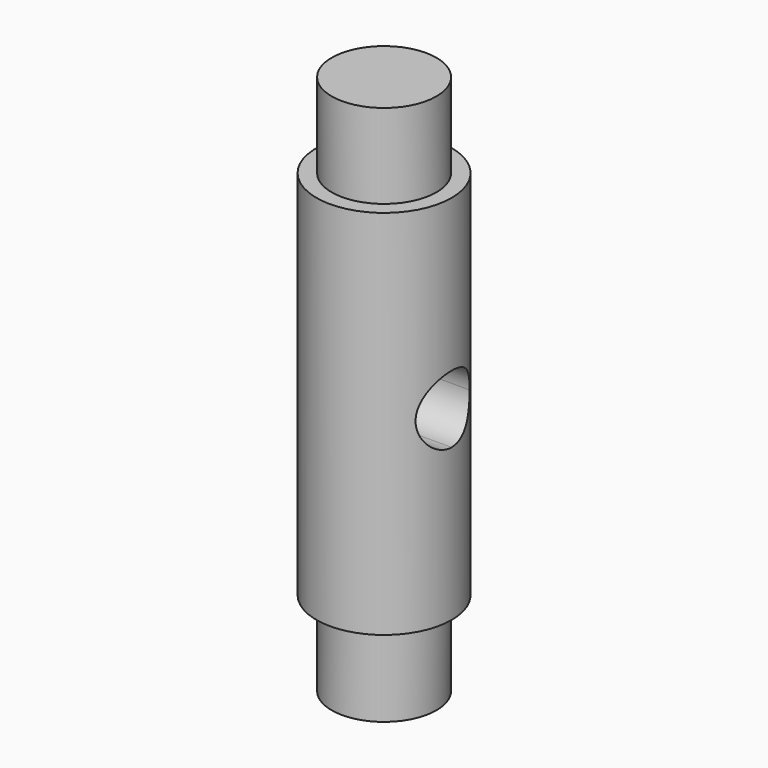
from build123d import *

# Parameters (mm, degrees)
F0_R     = 4
F0_R_2   = 3.1
F1_DEPTH = 22
F2_DEPTH = 27
F3_DEPTH = 5
F5_DEPTH = 25
F6_DEPTH = 25


with BuildPart() as f1:
    # F0 (on Top) → F1 (new body)
    with BuildSketch(Plane.XY):
        Circle(F0_R)
        Circle(F0_R_2, mode=Mode.SUBTRACT)
    extrude(amount=F1_DEPTH)

    # F0 (on Top) → F2 (join)
    with BuildSketch(Plane.XY):
        Circle(F0_R_2)
    extrude(amount=F2_DEPTH)

    # F0 (on Top) → F3 (join)
    with BuildSketch(Plane.XY):
        Circle(F0_R_2)
    extrude(amount=-F3_DEPTH)

    # F4 (on Right) → F5 (cut)
    with BuildSketch(Plane.YZ):
        with BuildLine():
            ThreePointArc((0, 13), (-2, 11), (0, 9))
            Line((0, 9), (0, 13))
        make_face()
        with BuildLine():
            Line((0, 13), (0, 9))
            ThreePointArc((0, 9), (1.4142135624, 9.5857864376), (2, 11))
            ThreePointArc((2, 11), (1.4142135624, 12.4142135624), (0, 13))
        make_face()
    extrude(amount=F5_DEPTH, mode=Mode.SUBTRACT)

    # F6 (cut): a face of the model
    f6_faces = [f1.faces().sort_by_distance(p)[0] for p in [
        (0, 0, 11),
    ]]
    extrude(f6_faces, amount=-F6_DEPTH, mode=Mode.SUBTRACT)


solid = f1.part
